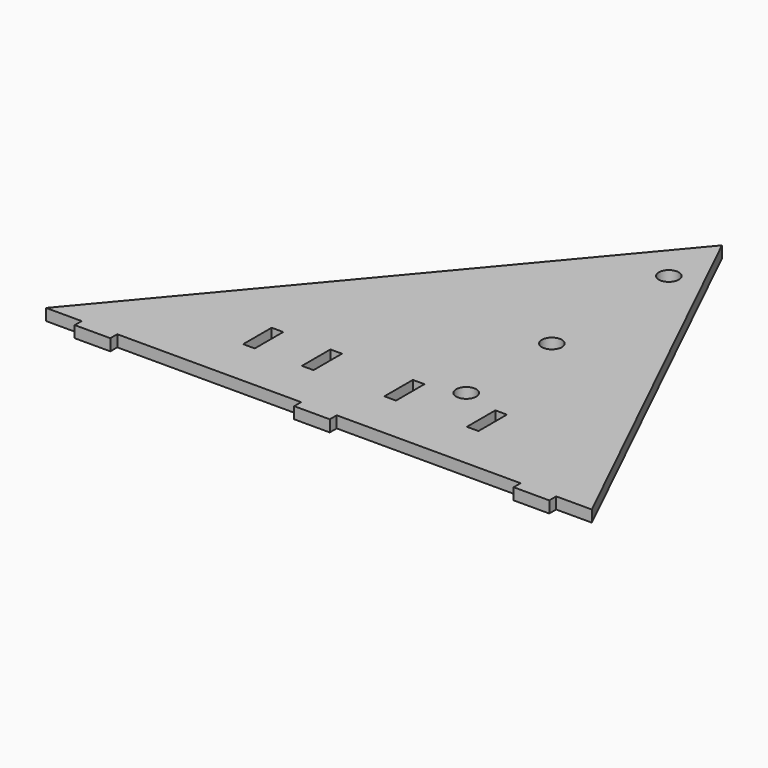
from build123d import *

# Parameters (mm, degrees)
F0_R     = 10.7188
F1_DEPTH = 12.3952
F2_W     = 38.1
F2_H     = 12.3952
F3_DEPTH = 9.2964
F4_W     = 12.3952
F4_H     = 38.1
F5_DEPTH = 12.3952


with BuildPart() as f1:
    # F0 (on Top) → F1 (new body)
    with BuildSketch(Plane.XY):
        Polygon((370.379505, 441.401105), (0, 0), (584.2, 0), align=None)
        with Locations((370.379505, 99.24288)):
            Circle(F0_R, mode=Mode.SUBTRACT)
        with Locations((370.379505, 213.868)):
            Circle(F0_R, mode=Mode.SUBTRACT)
        with Locations((370.379505, 370.332)):
            Circle(F0_R, mode=Mode.SUBTRACT)
    extrude(amount=F1_DEPTH)

    # F2 (on face) → F3 (join)
    with BuildSketch(Plane.XZ):
        with Locations((57.15, 6.1976)):
            Rectangle(F2_W, F2_H)
        with Locations((292.1, 6.1976)):
            Rectangle(F2_W, F2_H)
        with Locations((527.05, 6.1976)):
            Rectangle(F2_W, F2_H)
    extrude(amount=F3_DEPTH)

    # F4 (on face) → F5 (cut, through all)
    with BuildSketch(Plane(origin=(0, 0, 0), x_dir=(1, 0, 0), z_dir=(0, 0, -1))):
        with Locations((415.294277, -70.7644)):
            Rectangle(F4_W, F4_H)
        with Locations((327.003877, -70.7644)):
            Rectangle(F4_W, F4_H)
        with Locations((238.713477, -70.7644)):
            Rectangle(F4_W, F4_H)
        with Locations((175.823077, -70.7644)):
            Rectangle(F4_W, F4_H)
    extrude(amount=-F5_DEPTH, mode=Mode.SUBTRACT)


solid = f1.part
